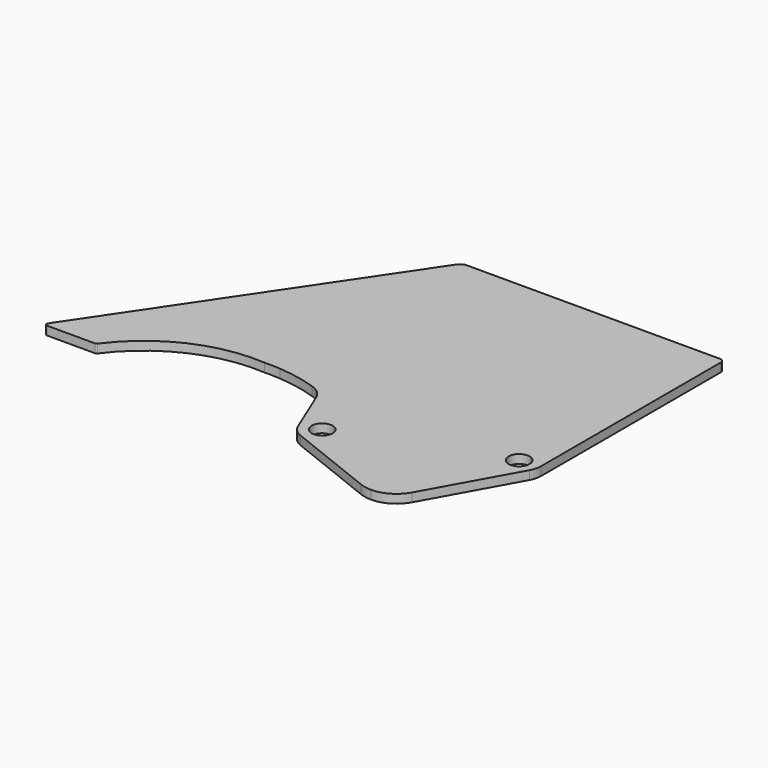
from build123d import *

# Parameters (mm, degrees)
F1_DEPTH = 4.7625


with BuildPart() as f1:
    # F0 (on Top) → F1 (new body)
    with BuildSketch(Plane.XY):
        with BuildLine():
            ThreePointArc((-152.4, 63.5), (-147.952155, 63.501619), (-143.51, 63.27672))
            Line((-143.51, 63.27672), (-143.51, 187.182388))
            ThreePointArc((-143.51, 187.182388), (-144.341638, 186.530517), (-145.020427, 185.7207))
            Line((-145.020427, 185.7207), (-247.280253, 34.114273))
            ThreePointArc((-247.280253, 34.114273), (-247.348719, 32.807869), (-246.227376, 32.134098))
            Line((-246.227376, 32.134098), (-220.052506, 32.134098))
            ThreePointArc((-220.052506, 32.134098), (-219.478663, 32.271135), (-219.028659, 32.652674))
            ThreePointArc((-219.028659, 32.652674), (-189.686124, 56.655212), (-152.4, 63.5))
        make_face()
        with BuildLine():
            Line((-98.30838, 20.51779), (-49.596252, 1.226792))
            ThreePointArc((-49.596252, 1.226792), (-52.981384, 31.905787), (-25.70408, 17.4625))
            ThreePointArc((-25.70408, 17.4625), (-26.260302, 13.090239), (-27.893533, 8.996512))
            Line((-27.893533, 8.996512), (-1.59233, 56.445139))
            ThreePointArc((-1.59233, 56.445139), (-0.404525, 59.422396), (0, 62.602222))
            Line((0, 62.602222), (0, 185.42))
            ThreePointArc((0, 185.42), (-0.743949, 187.216051), (-2.54, 187.96))
            Line((-2.54, 187.96), (-140.808916, 187.96))
            ThreePointArc((-140.808916, 187.96), (-142.214311, 187.761728), (-143.51, 187.182388))
            Line((-143.51, 187.182388), (-143.51, 63.27672))
            ThreePointArc((-143.51, 63.27672), (-133.112936, 61.851877), (-122.961928, 59.189894))
            ThreePointArc((-122.961928, 59.189894), (-118.033451, 56.445639), (-114.779625, 51.837664))
            Line((-114.779625, 51.837664), (-104.314477, 26.441552))
            ThreePointArc((-104.314477, 26.441552), (-98.237009, 40.619001), (-84.189692, 34.246517))
            ThreePointArc((-84.189692, 34.246517), (-83.702674, 32.428941), (-83.538674, 30.554409))
            ThreePointArc((-83.538674, 30.554409), (-88.266341, 21.625832), (-98.30838, 20.51779))
        make_face()
        with BuildLine():
            ThreePointArc((-5.08, 60.96), (-9.802601, 55.331824), (-16.165343, 59.005355))
            ThreePointArc((-16.165343, 59.005355), (-11.787399, 66.588176), (-5.08, 60.96))
        make_face(mode=Mode.SUBTRACT)
        with BuildLine():
            ThreePointArc((-49.596252, 1.226792), (-46.439412, 0.30944), (-43.16658, 0))
            ThreePointArc((-43.16658, 0), (-34.303691, 2.416301), (-27.893533, 8.996512))
            ThreePointArc((-27.893533, 8.996512), (-26.260302, 13.090239), (-25.70408, 17.4625))
            ThreePointArc((-25.70408, 17.4625), (-52.981384, 31.905787), (-49.596252, 1.226792))
        make_face()
        with BuildLine():
            ThreePointArc((-104.314477, 26.441552), (-101.91403, 22.868694), (-98.30838, 20.51779))
            ThreePointArc((-98.30838, 20.51779), (-88.266341, 21.625832), (-83.538674, 30.554409))
            ThreePointArc((-83.538674, 30.554409), (-83.702674, 32.428941), (-84.189692, 34.246517))
            ThreePointArc((-84.189692, 34.246517), (-98.237009, 40.619001), (-104.314477, 26.441552))
        make_face()
        with BuildLine():
            ThreePointArc((-88.618674, 30.554409), (-99.96185, 29.56201), (-88.963331, 32.509054))
            ThreePointArc((-88.963331, 32.509054), (-88.705498, 31.546809), (-88.618674, 30.554409))
        make_face(mode=Mode.SUBTRACT)
    extrude(amount=F1_DEPTH)


solid = f1.part
